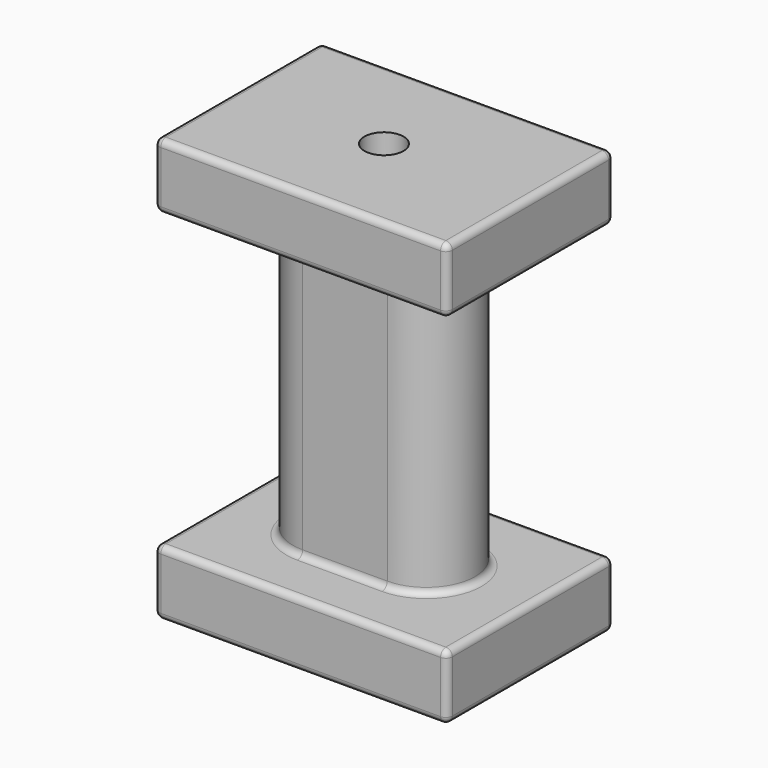
from build123d import *

# Parameters (mm, degrees)
F0_R     = 3
F1_DEPTH = 22.5
F4_W     = 45
F4_H     = 32
F4_R     = 3
F5_DEPTH = 10
F6_W     = 45
F6_H     = 32
F6_R     = 3
F7_DEPTH = 10
F8_R     = 1


with BuildPart() as f1:
    # F0 (on Top) → F1 (new body, symmetric)
    with BuildSketch(Plane.XY):
        with BuildLine():
            ThreePointArc((6.5, -7.5), (14, 0), (6.5, 7.5))
            Line((6.5, 7.5), (-6.5, 7.5))
            ThreePointArc((-6.5, 7.5), (-14, 0), (-6.5, -7.5))
            Line((-6.5, -7.5), (6.5, -7.5))
        make_face()
        Circle(F0_R, mode=Mode.SUBTRACT)
    extrude(amount=F1_DEPTH, both=True)

    # F4 (on offset) → F5 (join)
    with BuildSketch(Plane.XY.offset(22.5)):
        Rectangle(F4_W, F4_H)
        Circle(F4_R, mode=Mode.SUBTRACT)
    extrude(amount=F5_DEPTH)

    # F6 (on offset) → F7 (join)
    with BuildSketch(Plane.XY.offset(-22.5)):
        Rectangle(F6_W, F6_H)
        Circle(F6_R, mode=Mode.SUBTRACT)
    extrude(amount=-F7_DEPTH)

    # F8
    f8_edges = [f1.edges().sort_by_distance(p)[0] for p in [
        (0, 16, -32.5),
        (22.5, 0, -32.5),
        (0, -16, -32.5),
        (-22.5, 0, -32.5),
        (0, 16, -22.5),
        (22.5, 16, -27.5),
        (22.5, 0, -22.5),
        (22.5, -16, -27.5),
        (0, -16, -22.5),
        (-22.5, -16, -27.5),
        (-22.5, 0, -22.5),
        (-22.5, 16, -27.5),
        (0, 7.5, -22.5),
        (-14, 0, 22.5),
        (-22.5, 16, 27.5),
        (-22.5, 0, 22.5),
        (0, 16, 22.5),
        (-22.5, 0, 32.5),
        (0, 16, 32.5),
        (-22.5, -16, 27.5),
        (0, -16, 32.5),
        (0, -16, 22.5),
        (22.5, -16, 27.5),
        (22.5, 0, 22.5),
        (22.5, 0, 32.5),
        (22.5, 16, 27.5),
    ]]
    fillet(f8_edges, radius=F8_R)


solid = f1.part
